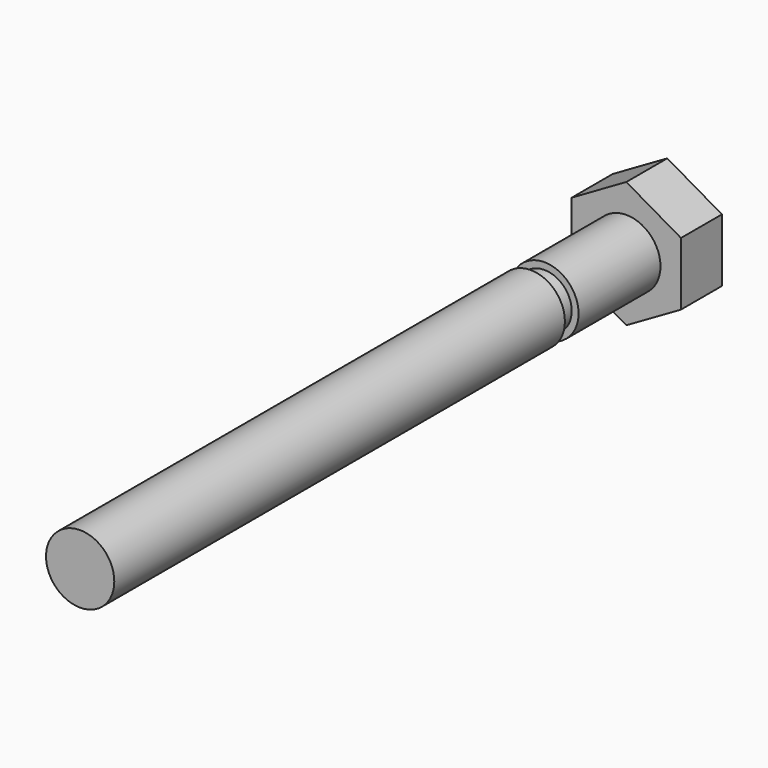
from build123d import *

# Parameters (mm, degrees)
F0_R     = 10
F1_DEPTH = 200
F3_R     = 10
F3_R_2   = 8
F4_DEPTH = 5
F6_DEPTH = 15


with BuildPart() as f1:
    # F0 (on Front) → F1 (new body)
    with BuildSketch(Plane.XZ):
        Circle(F0_R)
    extrude(amount=F1_DEPTH)

    # F3 (on offset) → F4 (cut)
    with BuildSketch(Plane.XZ.offset(30)):
        Circle(F3_R)
        Circle(F3_R_2, mode=Mode.SUBTRACT)
    extrude(amount=F4_DEPTH, mode=Mode.SUBTRACT)

    # F5 (on face) → F6 (join)
    with BuildSketch(Plane(origin=(0, 0, 0), x_dir=(-1, 0, 0), z_dir=(0, 1, 0))):
        Polygon((16, -9.237604), (16, 9.237604), (0, 18.475209), (-16, 9.237604), (-16, -9.237604), (0, -18.475209), align=None)
    extrude(amount=F6_DEPTH)


solid = f1.part
